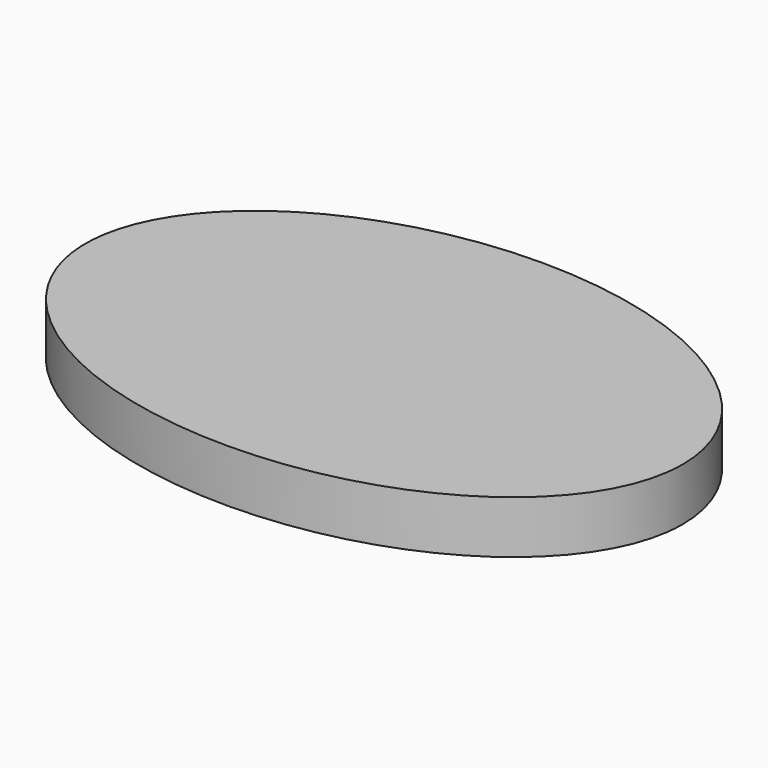
from build123d import *

# Parameters (mm, degrees)
PAD_DEPTH = 6


with BuildPart() as part:
    # Sketch → Pad (new body)
    with BuildSketch(Plane.XY):
        with BuildLine():
            add(Edge.make_bspline(
                [(34, 0), (34, 38.971143), (-17, 19.485572), (-68, 0), (-17, -19.485572), (34, -38.971143), (34, 0)],
                knots=[0, 0, 0, 2.094395, 2.094395, 4.18879, 4.18879, 6.283185, 6.283185, 6.283185], degree=2, weights=[1, 0.5, 1, 0.5, 1, 0.5, 1]))
        make_face()
    extrude(amount=PAD_DEPTH)


solid = part.part
